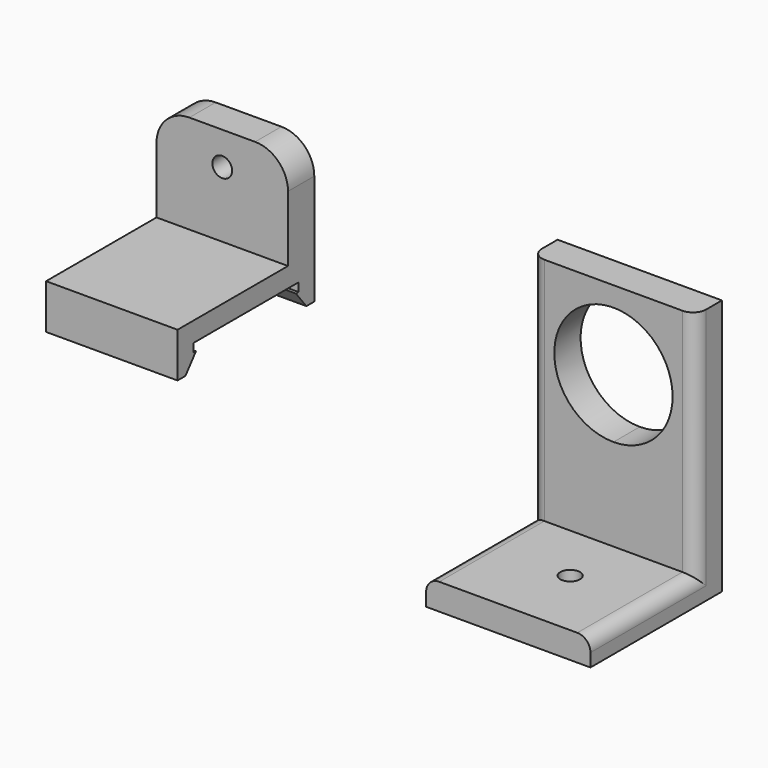
from build123d import *

# Parameters (mm, degrees)
F1_DEPTH  = 5
F0_W      = 20
F0_H      = 3
F2_DEPTH  = 26
F0_H_2    = 1.3
F3_DEPTH  = 3
F4_W      = 20
F4_H      = 3
F5_DEPTH  = 1.3
F8_DEPTH  = 20
F9_DEPTH  = 20
F10_R     = 5
F11_R     = 5
F12_W     = 25
F12_H     = 4
F13_DEPTH = 25
F14_DEPTH = 5
F16_D     = 3
F17_R     = 2
F18_R     = 2


with BuildPart() as f1:
    # F0 (on Front) → F1 (new body)
    with BuildSketch(Plane.XZ):
        Polygon((-47.009775, 40.472453), (-57.009775, 40.472453), (-57.009775, 25.472453), (-37.009775, 25.472453), (-37.009775, 40.472453), align=None)
        with BuildLine():
            ThreePointArc((-45.509775, 35.472453), (-48.070435, 34.411793), (-47.009775, 36.972453))
            ThreePointArc((-47.009775, 36.972453), (-45.949115, 36.533113), (-45.509775, 35.472453))
        make_face(mode=Mode.SUBTRACT)
    extrude(amount=F1_DEPTH)

    # F0 (on Front) → F2 (join)
    with BuildSketch(Plane.XZ):
        with Locations((-47.009775, 23.972453)):
            Rectangle(F0_W, F0_H)
    extrude(amount=F2_DEPTH)

    # F0 (on Front) → F3 (join)
    with BuildSketch(Plane.XZ):
        with Locations((-47.009775, 21.822453)):
            Rectangle(F0_W, F0_H_2)
    extrude(amount=F3_DEPTH)

    # F4 (on face) → F5 (join)
    with BuildSketch(Plane(origin=(0, 0, 22.472453), x_dir=(1, 0, 0), z_dir=(0, 0, -1))):
        with Locations((-47.009775, 24.5)):
            Rectangle(F4_W, F4_H)
    extrude(amount=F5_DEPTH)

    # F6 (on face) → F8 (join)
    with BuildSketch(Plane.YZ.offset(-37.009775)):
        Polygon((-23, 21.172453), (-26, 21.172453), (-26, 18.672453), (-24.5, 18.672453), (-22.5, 21.172453), align=None)
    extrude(amount=-F8_DEPTH)

    # F7 (on face) → F9 (join)
    with BuildSketch(Plane(origin=(-57.009775, 0, 0), x_dir=(0, -1, 0), z_dir=(-1, 0, 0))):
        Polygon((3.5, 21.172453), (3, 21.172453), (0, 21.172453), (0, 18.672453), (1.5, 18.672453), align=None)
    extrude(amount=-F9_DEPTH)

    # F10
    f10_edges = [f1.edges().sort_by_distance(p)[0] for p in [
        (-57.009775, -2.5, 40.472453),
    ]]
    fillet(f10_edges, radius=F10_R)

    # F11
    f11_edges = [f1.edges().sort_by_distance(p)[0] for p in [
        (-37.009775, -2.5, 40.472453),
    ]]
    fillet(f11_edges, radius=F11_R)


with BuildPart() as f13:
    # F12 (on Front) → F13 (new body)
    with BuildSketch(Plane.XZ):
        with Locations((12.5, 2)):
            Rectangle(F12_W, F12_H)
    extrude(amount=F13_DEPTH)

    # F12 (on Front) → F14 (join)
    with BuildSketch(Plane.XZ):
        Polygon((0, 18), (0, 4), (25, 4), (25, 39), (0, 39), align=None)
        with BuildLine():
            ThreePointArc((21.5, 27), (18.863961, 20.636039), (12.5, 18))
            ThreePointArc((12.5, 18), (6.136039, 33.363961), (21.5, 27))
        make_face(mode=Mode.SUBTRACT)
    extrude(amount=F14_DEPTH)

    # F16 (through all)
    with Locations(Plane.XY.offset(4)):
        with Locations((13.16359, -14.060337)):
            Hole(F16_D / 2)

    # F17
    f17_edges = [f13.edges().sort_by_distance(p)[0] for p in [
        (25, -15, 4),
        (25, -5, 21.5),
    ]]
    fillet(f17_edges, radius=F17_R)

    # F18
    f18_edges = [f13.edges().sort_by_distance(p)[0] for p in [
        (0, -5, 21.5),
        (0, -15, 4),
    ]]
    fillet(f18_edges, radius=F18_R)


solid = Compound([f1.part, f13.part])
